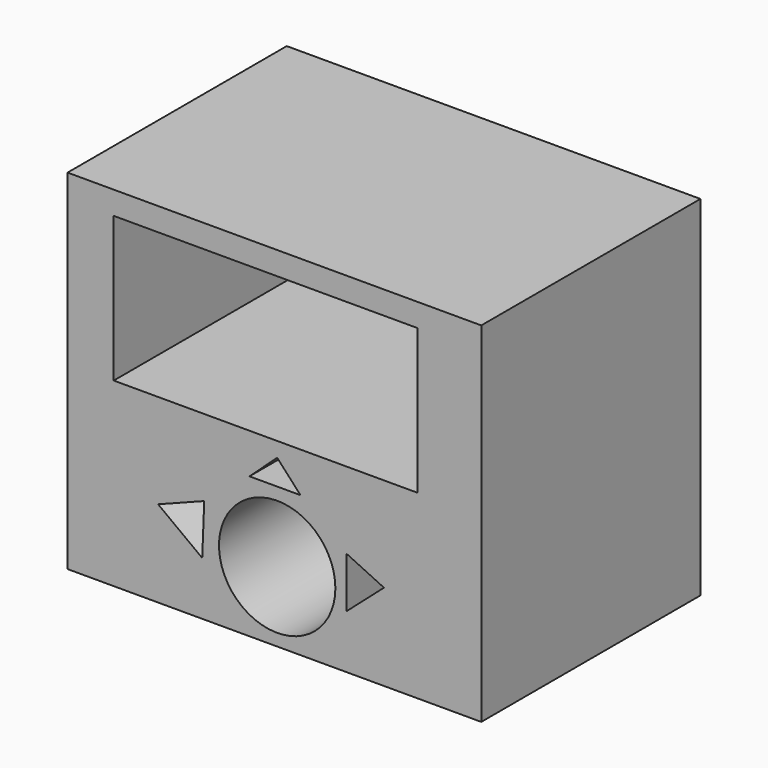
from build123d import *

# Parameters (mm, degrees)
F0_R     = 16.183835
F1_DEPTH = 76.2


with BuildPart() as f1:
    # F0 (on Front) → F1 (new body)
    with BuildSketch(Plane.XZ):
        Polygon((56.764722, 57.920564), (0, 57.920564), (-58.305845, 57.920564), (-58.305845, -39.170228), (56.764722, -39.170228), align=None)
        Polygon((-33.118952, -15.107391), (-20.291461, -10.14573), (-20.851416, -24.272695), align=None, mode=Mode.SUBTRACT)
        with Locations((0, -19.649327)):
            Circle(F0_R, mode=Mode.SUBTRACT)
        Polygon((19.264044, -24.272695), (19.264044, -10.14573), (29.703761, -15.107391), align=None, mode=Mode.SUBTRACT)
        Polygon((6.474859, 0), (-7.705619, 0), (0, 7.063483), align=None, mode=Mode.SUBTRACT)
        Polygon((-2.311687, 51.499214), (0, 51.499214), (39.041799, 51.499214), (39.041799, 11.173147), (-45.463149, 11.173147), (-45.463149, 51.499214), align=None, mode=Mode.SUBTRACT)
    extrude(amount=F1_DEPTH)


solid = f1.part
